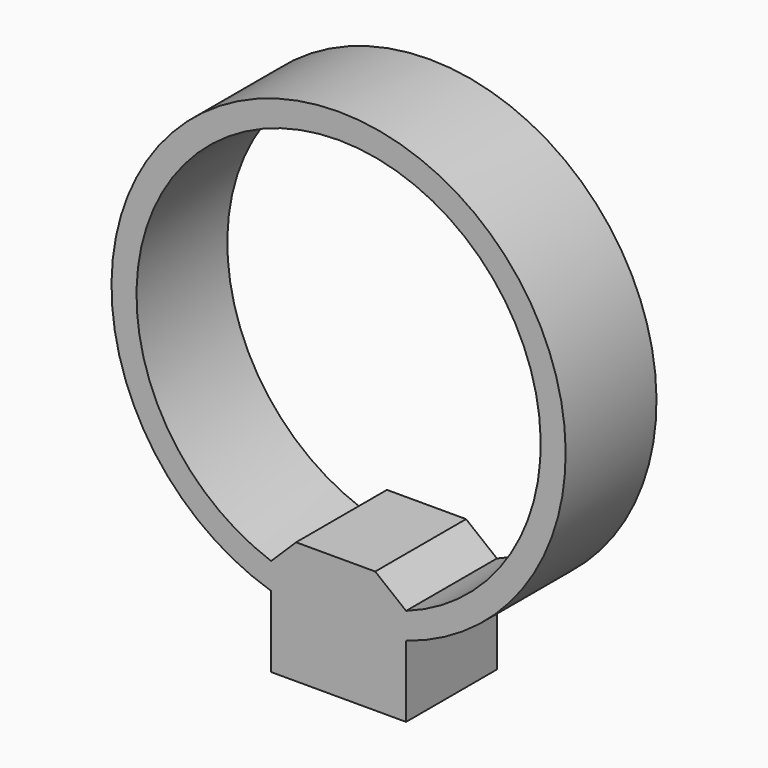
from build123d import *

# Parameters (mm, degrees)
F1_DEPTH = 25.4


with BuildPart() as f1:
    # F0 (on Front) → F1 (new body)
    with BuildSketch(Plane.XZ):
        with BuildLine():
            Line((15.1003, -42.616936), (15.1003, -48.503824))
            ThreePointArc((15.1003, -48.503824), (0, 50.8), (-15.1003, -48.503824))
            Line((-15.1003, -48.503824), (-15.1003, -42.616936))
            ThreePointArc((-15.1003, -42.616936), (0, 45.213076), (15.1003, -42.616936))
        make_face()
        Polygon((15.1003, -64.487577), (15.1003, -48.503824), (15.1003, -42.616936), (8.197113, -37.112423), (-9.508923, -37.112423), (-15.1003, -42.616936), (-15.1003, -48.503824), (-15.1003, -64.487577), align=None)
    extrude(amount=F1_DEPTH)


solid = f1.part
